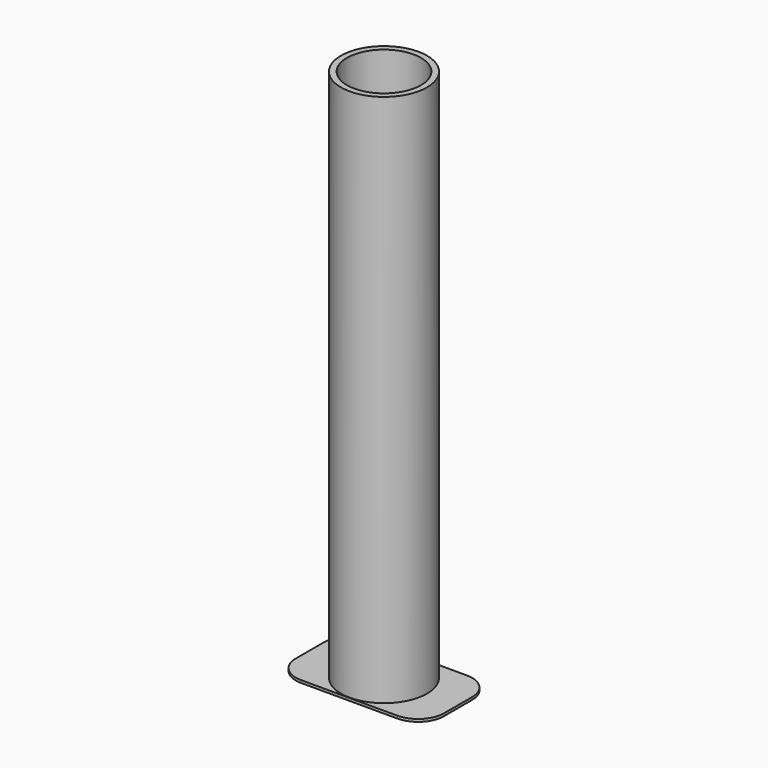
from build123d import *

# Parameters (mm, degrees)
F1_DEPTH = 0.5
F0_R     = 7.15
F2_DEPTH = 100
F3_R     = 5
F4_DEPTH = 103


with BuildPart() as f1:
    # F0 (on Top) → F1 (new body)
    with BuildSketch(Plane.XY):
        with BuildLine():
            Line((14.3, 0), (8.3, 0))
            ThreePointArc((8.3, 0), (0, -8.3), (-8.3, 0))
            Line((-8.3, 0), (-14.3, 0))
            Line((-14.3, 0), (-14.3, -8.4))
            Line((-14.3, -8.4), (14.3, -8.4))
            Line((14.3, -8.4), (14.3, 0))
        make_face()
        with BuildLine():
            ThreePointArc((-8.3, 0), (0, 8.3), (8.3, 0))
            Line((8.3, 0), (14.3, 0))
            Line((14.3, 0), (14.3, 8.4))
            Line((14.3, 8.4), (-14.3, 8.4))
            Line((-14.3, 8.4), (-14.3, 0))
            Line((-14.3, 0), (-8.3, 0))
        make_face()
    extrude(amount=-F1_DEPTH)

    # F3
    f3_edges = [f1.edges().sort_by_distance(p)[0] for p in [
        (14.3, -8.4, -0.25),
        (14.3, 8.4, -0.25),
        (-14.3, 8.4, -0.25),
        (-14.3, -8.4, -0.25),
    ]]
    fillet(f3_edges, radius=F3_R)



with BuildPart() as f2:
    # F0 (on Top) → F2 (new body)
    with BuildSketch(Plane.XY):
        with BuildLine():
            ThreePointArc((-8.3, 0), (0, -8.3), (8.3, 0))
            ThreePointArc((8.3, 0), (0, 8.3), (-8.3, 0))
        make_face()
        Circle(F0_R, mode=Mode.SUBTRACT)
    extrude(amount=F2_DEPTH)


with BuildPart() as f1_1:
    add(f1.part)

    add(f2.part)  # F4 merges F2
    # F0 (on Top) → F4 (join)
    with BuildSketch(Plane.XY):
        with BuildLine():
            ThreePointArc((-8.3, 0), (0, -8.3), (8.3, 0))
            ThreePointArc((8.3, 0), (0, 8.3), (-8.3, 0))
        make_face()
        Circle(F0_R, mode=Mode.SUBTRACT)
    extrude(amount=F4_DEPTH)


solid = f1_1.part
